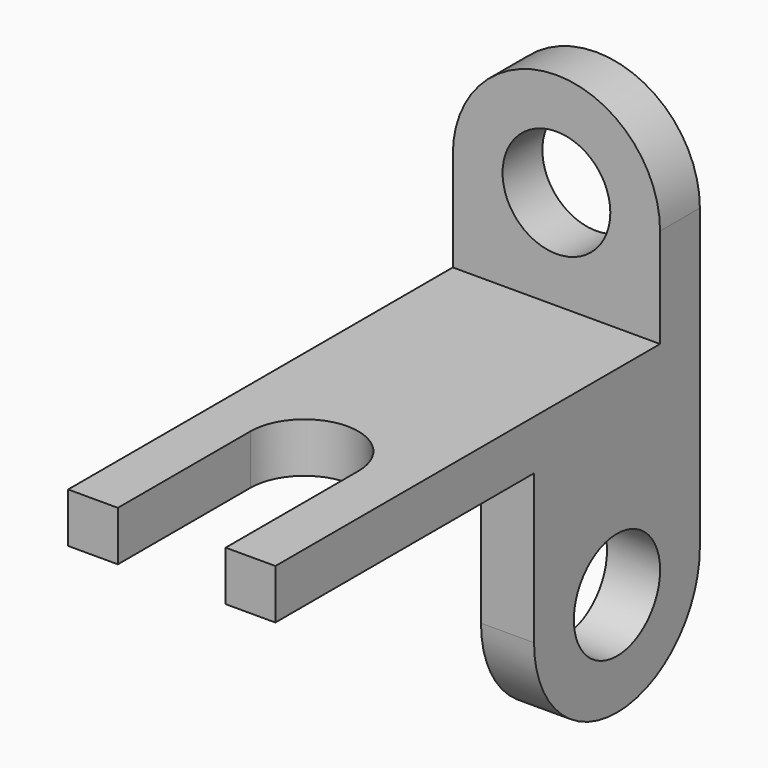
from build123d import *

# Parameters (mm, degrees)
F1_DEPTH = 6
F3_DEPTH = 6
F5_DEPTH = 6.4


with BuildPart() as f1:
    # F0 (on Top) → F1 (new body)
    with BuildSketch(Plane.XY):
        with BuildLine():
            Line((12.5, -32), (12.5, 32))
            Line((12.5, 32), (-12.5, 32))
            Line((-12.5, 32), (-12.5, -32))
            Line((-12.5, -32), (-6.5, -32))
            Line((-6.5, -32), (-6.5, -12))
            ThreePointArc((-6.5, -12), (0, -5.5), (6.5, -12))
            Line((6.5, -12), (6.5, -32))
            Line((6.5, -32), (12.5, -32))
        make_face()
    extrude(amount=F1_DEPTH)

    # F2 (on face) → F3 (join)
    with BuildSketch(Plane(origin=(0, 32, 0), x_dir=(-1, 0, 0), z_dir=(0, 1, 0))):
        with BuildLine():
            Line((-12.5, 18), (-12.5, 6))
            Line((-12.5, 6), (12.5, 6))
            Line((12.5, 6), (12.5, 18))
            Line((12.5, 18), (6.5, 18))
            ThreePointArc((6.5, 18), (0, 11.5), (-6.5, 18))
            Line((-6.5, 18), (-12.5, 18))
        make_face()
        with BuildLine():
            ThreePointArc((12.5, 18), (0, 30.5), (-12.5, 18))
            Line((-12.5, 18), (-6.5, 18))
            ThreePointArc((-6.5, 18), (0, 24.5), (6.5, 18))
            Line((6.5, 18), (12.5, 18))
        make_face()
    extrude(amount=-F3_DEPTH)

    # F4 (on face) → F5 (join)
    with BuildSketch(Plane.YZ.offset(12.5)):
        with BuildLine():
            Line((32, -18), (32, 0))
            Line((32, 0), (7, 0))
            Line((7, 0), (7, -18))
            Line((7, -18), (13, -18))
            ThreePointArc((13, -18), (19.5, -11.5), (26, -18))
            Line((26, -18), (32, -18))
        make_face()
        with BuildLine():
            ThreePointArc((7, -18), (19.5, -30.5), (32, -18))
            Line((32, -18), (26, -18))
            ThreePointArc((26, -18), (19.5, -24.5), (13, -18))
            Line((13, -18), (7, -18))
        make_face()
    extrude(amount=-F5_DEPTH)


solid = f1.part
